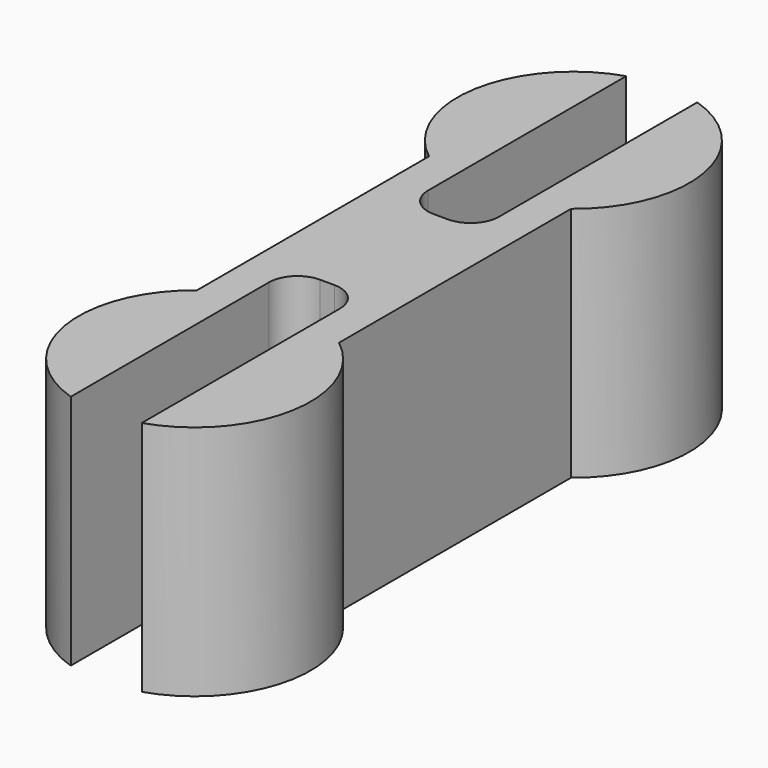
from build123d import *

# Parameters (mm, degrees)
F1_DEPTH = 12.7
F2_W     = 3.81
F2_H     = 25.6764874435
F3_DEPTH = 25.4
F4_R     = 1.524


with BuildPart() as f1:
    # F0 (on Top) → F1 (new body)
    with BuildSketch(Plane.XY):
        with BuildLine():
            Line((-3.81, 7.7796718605), (-3.81, -7.7796718605))
            ThreePointArc((-3.81, -7.7796718605), (0, -18.923), (3.81, -7.7796718605))
            Line((3.81, -7.7796718605), (3.81, 7.7796718605))
            ThreePointArc((3.81, 7.7796718605), (0, 18.923), (-3.81, 7.7796718605))
        make_face()
    extrude(amount=F1_DEPTH)

    # F2 (on face) → F3 (cut)
    with BuildSketch(Plane(origin=(0, 0, 0), x_dir=(1, 0, 0), z_dir=(0, 0, -1))):
        with Locations((0, -16.6482437217)):
            Rectangle(F2_W, F2_H)
        with Locations((0, 16.6482437217)):
            Rectangle(F2_W, F2_H)
    extrude(amount=-F3_DEPTH, mode=Mode.SUBTRACT)

    # F4
    f4_edges = [f1.edges().sort_by_distance(p)[0] for p in [
        (1.905, 3.81, 6.35),
        (-1.905, 3.81, 6.35),
        (1.905, -3.81, 6.35),
        (-1.905, -3.81, 6.35),
    ]]
    fillet(f4_edges, radius=F4_R)


solid = f1.part
